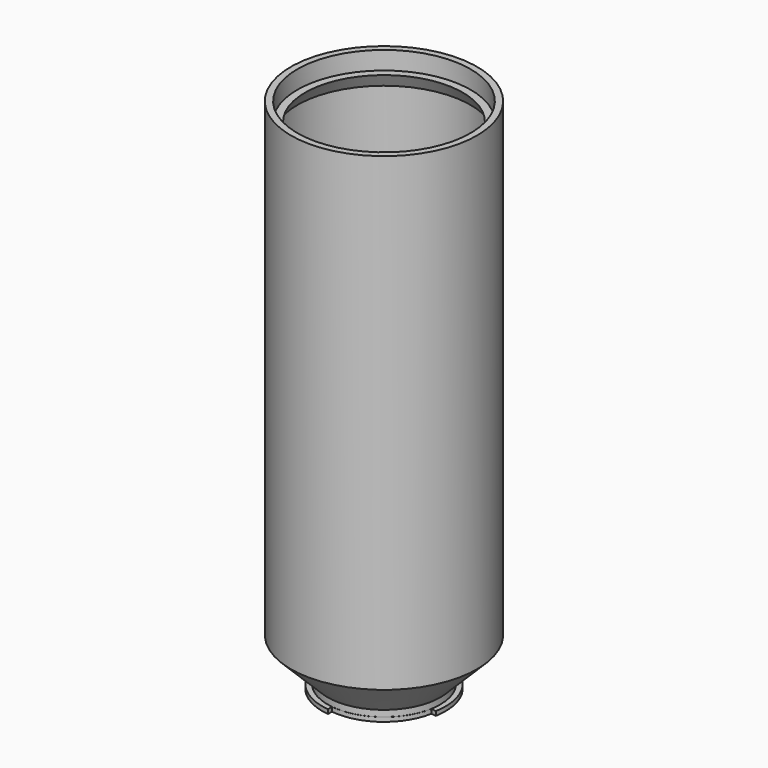
from build123d import *

# Parameters (mm, degrees)
F0_R     = 20.8
F1_DEPTH = 1.65
F2_R     = 21.79
F2_R_2   = 20.8
F3_DEPTH = 2.42


with BuildPart() as f1:
    # F0 (on Top) → F1 (new body)
    with BuildSketch(Plane.XY):
        with BuildLine():
            Line((-23.346566, 4.62362), (-21.59853, 3.30545))
            ThreePointArc((-21.59853, 3.30545), (-21.304567, -4.85159), (-18.037579, -12.331596))
            Line((-18.037579, -12.331596), (-19.64734, -13.432127))
            ThreePointArc((-19.64734, -13.432127), (-12.319875, -20.363219), (-2.779779, -23.637107))
            Line((-2.779779, -23.637107), (-2.779779, -21.672456))
            ThreePointArc((-2.779779, -21.672456), (12.912471, -17.626417), (21.501922, -3.884566))
            Line((21.501922, -3.884566), (23.420858, -4.231244))
            ThreePointArc((23.420858, -4.231244), (22.459544, 7.874571), (15.650801, 17.93021))
            Line((15.650801, 17.93021), (14.368487, 16.461138))
            ThreePointArc((14.368487, 16.461138), (3.12676, 21.625121), (-9.117285, 19.856928))
            Line((-9.117285, 19.856928), (-10.865321, 21.175098))
            ThreePointArc((-10.865321, 21.175098), (-19.002662, 14.329649), (-23.346566, 4.62362))
        make_face()
        Circle(F0_R, mode=Mode.SUBTRACT)
    extrude(amount=F1_DEPTH)

    # F2 (on face) → F3 (join)
    with BuildSketch(Plane.XY.offset(1.65)):
        Circle(F2_R)
        Circle(F2_R_2, mode=Mode.SUBTRACT)
    extrude(amount=F3_DEPTH)

    # F4 (on Right) → F5 (revolve)
    with BuildSketch(Plane.YZ):
        Polygon((-33.5, 193), (-33.5, 200), (-36, 200), (-36, 18.28), (-21.79, 4.07), (-20.8, 4.07), (-22.147417, 6.927417), (-33.5, 18.28), (-33.5, 187.803848), (-30.5, 193), align=None)
    revolve(axis=Axis((0, 0, 100), (0, 0, 1)))


solid = f1.part
